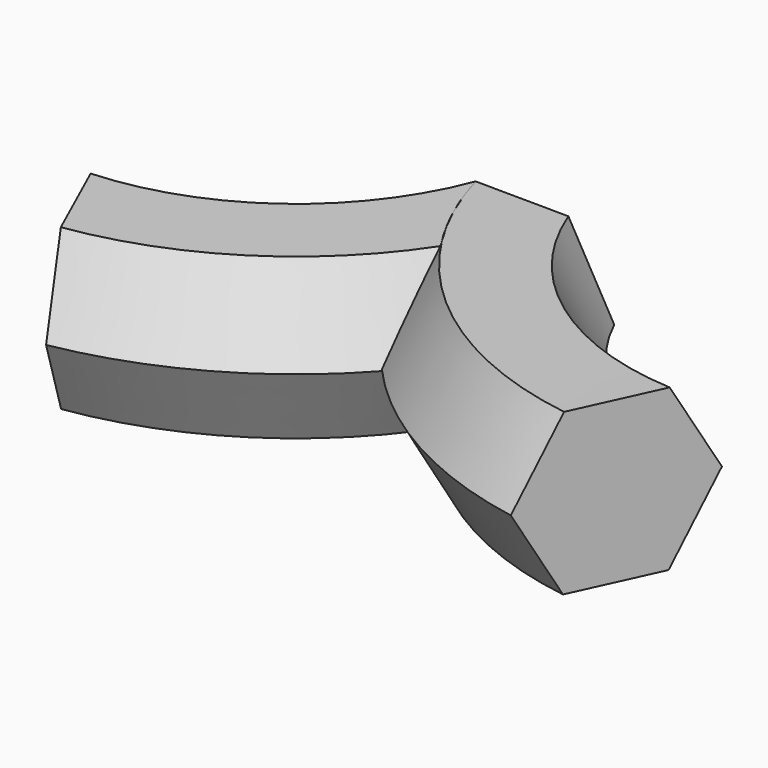
from build123d import *


with BuildPart() as f2:
    # F2: sweep along a path in F1
    with BuildLine(Plane.XY) as f2_path:
        ThreePointArc((88.857807, -72.113179), (33.770109, -49.190349), (0, 0))
    # F0 (on Front) → F2 (sweep)
    with BuildSketch(Plane.XZ):
        Polygon((-30.479473, 27.065896), (-15.394954, 0.580283), (15.084519, 0.401054), (30.479473, 26.707437), (15.394954, 53.19305), (-15.084519, 53.372279), align=None)
    sweep(path=f2_path.line)

    # F3: sweep along a path in F1
    with BuildLine(Plane.XY) as f3_path:
        ThreePointArc((-88.857807, -72.113179), (-33.770109, -49.190349), (0, 0))
    # F0 (on Front) → F3 (sweep)
    with BuildSketch(Plane.XZ):
        Polygon((-30.479473, 27.065896), (-15.394954, 0.580283), (15.084519, 0.401054), (30.479473, 26.707437), (15.394954, 53.19305), (-15.084519, 53.372279), align=None)
    sweep(path=f3_path.line)


solid = f2.part
